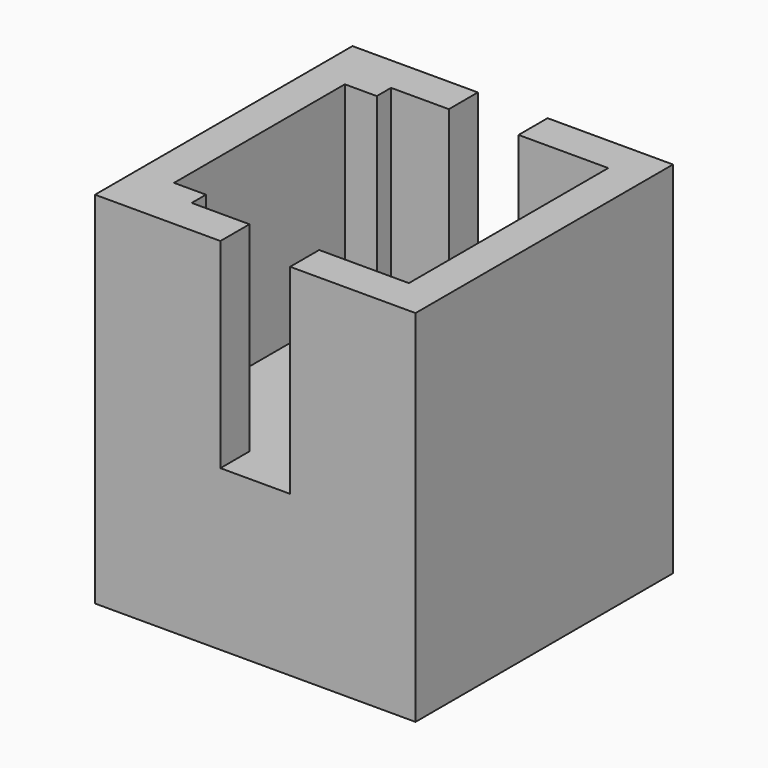
from build123d import *

# Parameters (mm, degrees)
F0_W     = 40.075
F0_H     = 40.238
F1_DEPTH = 20
F3_DEPTH = 25


with BuildPart() as f1:
    # F0 (on Top) → F1 (new body)
    with BuildSketch(Plane.XY):
        with Locations((20.0375, 20.119)):
            Rectangle(F0_W, F0_H)
    extrude(amount=F1_DEPTH)

    # F2 (on face) → F3 (join)
    with BuildSketch(Plane.XY.offset(20)):
        Polygon((0, 0), (15.679484, 0), (15.679484, 4.538651), (8.456758, 4.538651), (8.456758, 6.773453), (4.463318, 6.773453), (4.463318, 33.464547), (8.456758, 33.464547), (8.456758, 35.699349), (15.679484, 35.699349), (15.679484, 40.238), (0, 40.238), align=None)
        Polygon((35.611682, 35.699349), (35.611682, 4.538651), (24.395516, 4.538651), (24.395516, 0), (40.075, 0), (40.075, 40.238), (24.395516, 40.238), (24.395516, 35.699349), align=None)
    extrude(amount=F3_DEPTH)


solid = f1.part
